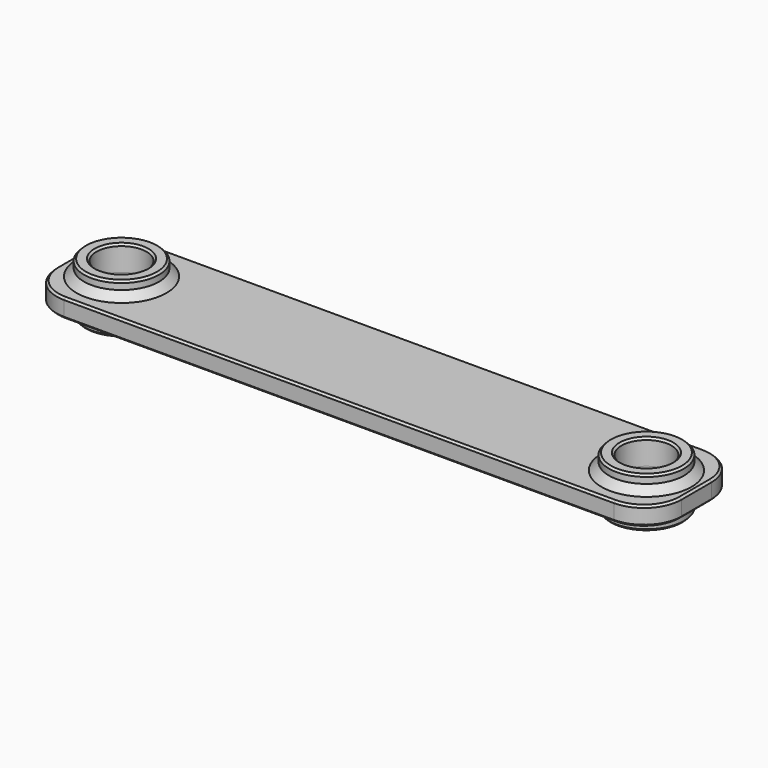
from build123d import *

# Parameters (mm, degrees)
F0_R          = 19.05
F1_DEPTH      = 4.7625
F1_DEPTH_BACK = 4.7625
F0_R_2        = 12.7
F2_DEPTH      = 12.7
F2_DEPTH_BACK = 12.7
F3_SIZE       = 1.016
F4_SIZE       = 3.81


with BuildPart() as f1:
    # F0 (on Top) → F1 (new body, two sides)
    with BuildSketch(Plane.XY) as f1_sk:
        with BuildLine():
            Line((-139.7, -28.575), (139.7, -28.575))
            ThreePointArc((139.7, -28.575), (153.170384, -22.995384), (158.75, -9.525))
            Line((158.75, -9.525), (158.75, 9.525))
            ThreePointArc((158.75, 9.525), (153.170384, 22.995384), (139.7, 28.575))
            Line((139.7, 28.575), (-139.7, 28.575))
            ThreePointArc((-139.7, 28.575), (-153.170384, 22.995384), (-158.75, 9.525))
            Line((-158.75, 9.525), (-158.75, -9.525))
            ThreePointArc((-158.75, -9.525), (-153.170384, -22.995384), (-139.7, -28.575))
        make_face()
        with Locations((-133.35, 0)):
            Circle(F0_R, mode=Mode.SUBTRACT)
        with Locations((133.35, 0)):
            Circle(F0_R, mode=Mode.SUBTRACT)
    extrude(amount=F1_DEPTH)
    extrude(f1_sk.sketch, amount=-F1_DEPTH_BACK)

    # F0 (on Top) → F2 (join, two sides)
    with BuildSketch(Plane.XY) as f2_sk:
        with Locations((-133.35, 0)):
            Circle(F0_R)
        with Locations((-133.35, 0)):
            Circle(F0_R_2, mode=Mode.SUBTRACT)
        with Locations((133.35, 0)):
            Circle(F0_R)
        with Locations((133.35, 0)):
            Circle(F0_R_2, mode=Mode.SUBTRACT)
    extrude(amount=F2_DEPTH)
    extrude(f2_sk.sketch, amount=-F2_DEPTH_BACK)

    # F3
    f3_edges = [f1.edges().sort_by_distance(p)[0] for p in [
        (-139.7, -28.575, 0),
        (0, -28.575, 4.7625),
        (139.7, -28.575, 0),
        (0, -28.575, -4.7625),
        (158.75, 0, 4.7625),
        (158.75, 9.525, 0),
        (158.75, 0, -4.7625),
        (158.75, -9.525, 0),
        (0, 28.575, 4.7625),
        (-139.7, 28.575, 0),
        (0, 28.575, -4.7625),
        (139.7, 28.575, 0),
        (-158.75, 9.525, 0),
        (-158.75, 0, 4.7625),
        (-158.75, -9.525, 0),
        (-158.75, 0, -4.7625),
        (120.65, 0, 12.7),
        (146.05, 0, 0),
        (120.65, 0, -12.7),
        (-146.05, 0, 12.7),
        (-120.65, 0, 0),
        (-146.05, 0, -12.7),
        (-152.4, 0, -12.7),
        (114.3, 0, -12.7),
        (114.3, 0, 12.7),
        (-152.4, 0, 12.7),
    ]]
    chamfer(f3_edges, length=F3_SIZE)

    # F4
    f4_edges = [f1.edges().sort_by_distance(p)[0] for p in [
        (-152.4, 0, 4.7625),
        (-152.4, 0, -4.7625),
        (114.3, 0, -4.7625),
        (114.3, 0, 4.7625),
    ]]
    chamfer(f4_edges, length=F4_SIZE)


solid = f1.part
